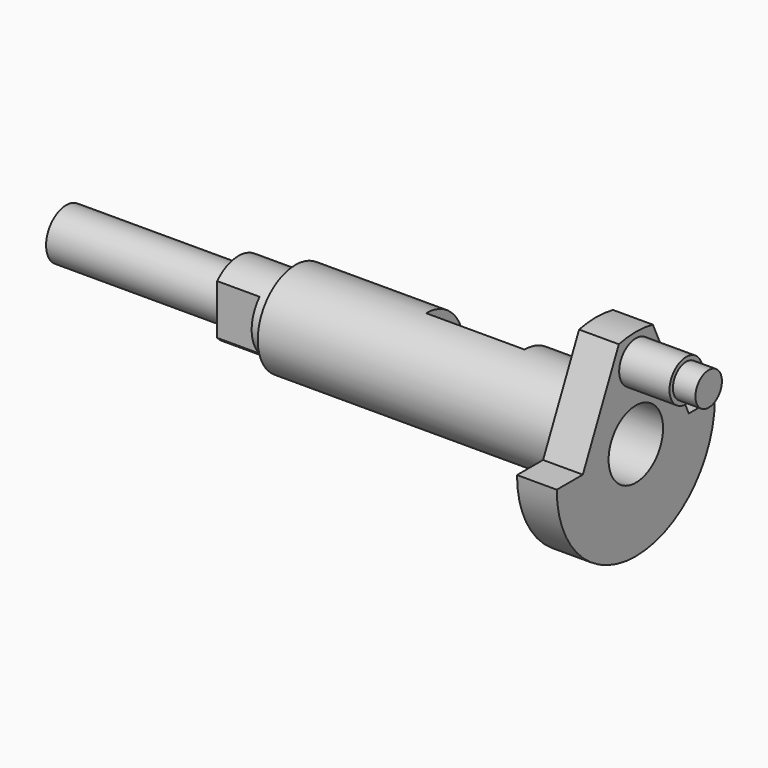
from build123d import *

# Parameters (mm, degrees)
F3_DEPTH       = 3.81
F4_R           = 3.2639
F5_DEPTH       = 22.352
F6_R           = 1.9939
F7_DEPTH       = 4.826
F8_R           = 1.5875
F9_DEPTH       = 2.159
F10_W          = 9.4488
F10_H          = 4.5085
F11_DEPTH      = 25.4
F12_W          = 4.064
F12_H          = 3.81
F13_DEPTH      = 9.4752
F13_DEPTH_BACK = 9.4752


with BuildPart() as f1:
    # F0 (on Front) → F1 (revolve)
    with BuildSketch(Plane.XZ):
        Polygon((-27.305, 2.413), (-27.305, 0), (27.305, 0), (27.305, 9.4742), (23.495, 9.4742), (23.495, 4.5085), (-5.334, 4.5085), (-5.334, 3.4925), (-10.795, 3.4925), (-10.795, 2.413), align=None)
    revolve(axis=Axis((0, 0, 0), (1, 0, 0)))

    # F2 (on face) → F3 (cut, through all)
    with BuildSketch(Plane.YZ.offset(27.305)):
        with BuildLine():
            ThreePointArc((-2.0352498271, 9.253011606), (-7.3838617793, 5.9362488883), (-9.4742, 0))
            Line((-9.4742, 0), (-6.35, 0))
            Line((-6.35, 0), (-2.0352498271, 9.253011606))
        make_face()
        with BuildLine():
            Line((6.35, 0), (9.4742, 0))
            ThreePointArc((9.4742, 0), (7.3838617793, 5.9362488883), (2.0352498271, 9.253011606))
            Line((2.0352498271, 9.253011606), (6.35, 0))
        make_face()
    extrude(amount=-F3_DEPTH, mode=Mode.SUBTRACT)

    # F4 (on face) → F5 (cut)
    with BuildSketch(Plane.YZ.offset(27.305)):
        Circle(F4_R)
    extrude(amount=-F5_DEPTH, mode=Mode.SUBTRACT)

    # F6 (on face) → F7 (join)
    with BuildSketch(Plane.YZ.offset(27.305)):
        with Locations((0, 6.9342)):
            Circle(F6_R)
    extrude(amount=F7_DEPTH)

    # F8 (on face) → F9 (join)
    with BuildSketch(Plane.YZ.offset(32.131)):
        with Locations((0, 6.9342)):
            Circle(F8_R)
    extrude(amount=F9_DEPTH)

    # F10 (on Top) → F11 (cut)
    with BuildSketch(Plane.XY):
        with Locations((11.9126, 2.25425)):
            Rectangle(F10_W, F10_H)
    extrude(amount=F11_DEPTH, mode=Mode.SUBTRACT)

    # F12 (on Top) → F13 (cut, two sides)
    with BuildSketch(Plane.XY) as f13_sk:
        with Locations((-8.763, -4.445)):
            Rectangle(F12_W, F12_H)
        with Locations((-8.763, 4.445)):
            Rectangle(F12_W, F12_H)
    extrude(amount=-F13_DEPTH, mode=Mode.SUBTRACT)
    extrude(f13_sk.sketch, amount=F13_DEPTH_BACK, mode=Mode.SUBTRACT)


solid = f1.part
